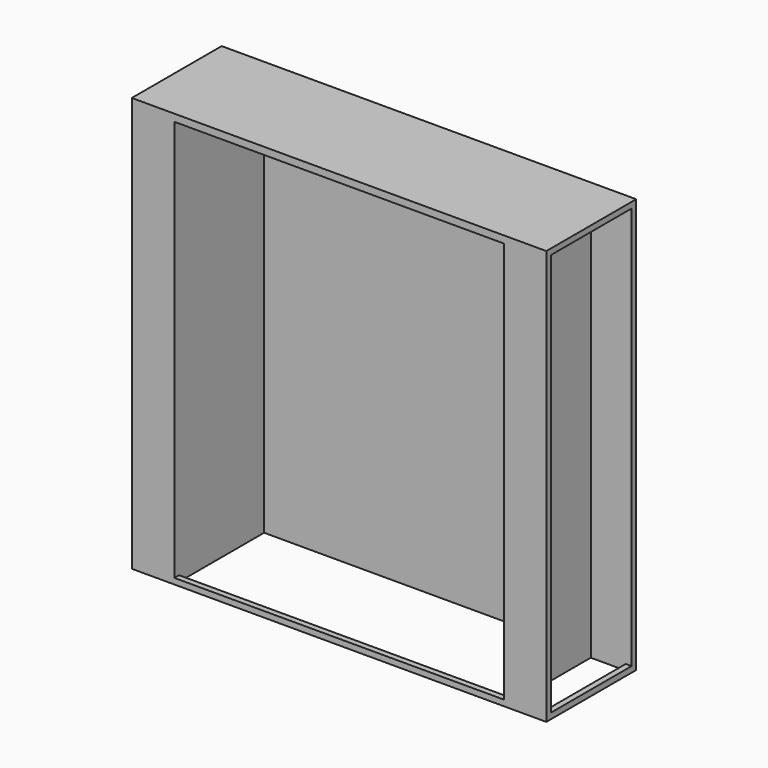
from build123d import *

# Parameters (mm, degrees)
F0_W      = 2200
F0_H      = 2200
F1_DEPTH  = 596
F2_W      = 1748
F2_H      = 595
F3_DEPTH  = 2415.503973
F4_W      = 596
F4_H      = 38
F5_DEPTH  = 1753.233517
F6_W      = 31
F6_H      = 31
F7_DEPTH  = 1759.984374
F8_W      = 534
F8_H      = 2138
F9_DEPTH  = 216
F10_W     = 185
F10_H     = 534
F11_DEPTH = 295.372376
F12_W     = 534
F12_H     = 2138
F13_DEPTH = 216
F14_W     = 185
F14_H     = 534
F15_DEPTH = 871.478731


with BuildPart() as f1:
    # F0 (on Front) → F1 (new body)
    with BuildSketch(Plane.XZ):
        with Locations((25.864166, -13.139114)):
            Rectangle(F0_W, F0_H)
    extrude(amount=-F1_DEPTH)

    # F2 (on face) → F3 (cut)
    with BuildSketch(Plane.XY.offset(1086.860886)):
        with Locations((25.864166, 297.5)):
            Rectangle(F2_W, F2_H)
    extrude(amount=-F3_DEPTH, mode=Mode.SUBTRACT)

    # F4 (on face) → F5 (join)
    with BuildSketch(Plane.YZ.offset(-848.135834)):
        with Locations((298, 1067.860886)):
            Rectangle(F4_W, F4_H)
    extrude(amount=F5_DEPTH)

    # F6 (on face) → F7 (join)
    with BuildSketch(Plane.YZ.offset(-848.135834)):
        with Locations((15.5, -1097.639114)):
            Rectangle(F6_W, F6_H)
    extrude(amount=F7_DEPTH)

    # F8 (on face) → F9 (cut)
    with BuildSketch(Plane.YZ.offset(1125.864166)):
        with Locations((298, -13.139114)):
            Rectangle(F8_W, F8_H)
    extrude(amount=-F9_DEPTH, mode=Mode.SUBTRACT)

    # F10 (on face) → F11 (cut)
    with BuildSketch(Plane.XY.offset(-1082.139114)):
        with Locations((1002.364166, 298)):
            Rectangle(F10_W, F10_H)
    extrude(amount=-F11_DEPTH, mode=Mode.SUBTRACT)

    # F12 (on face) → F13 (cut)
    with BuildSketch(Plane(origin=(-1074.135834, 0, 0), x_dir=(0, -1, 0), z_dir=(-1, 0, 0))):
        with Locations((-298, -13.139114)):
            Rectangle(F12_W, F12_H)
    extrude(amount=-F13_DEPTH, mode=Mode.SUBTRACT)

    # F14 (on face) → F15 (cut)
    with BuildSketch(Plane.XY.offset(-1082.139114)):
        with Locations((-950.635834, 298)):
            Rectangle(F14_W, F14_H)
    extrude(amount=-F15_DEPTH, mode=Mode.SUBTRACT)


solid = f1.part
